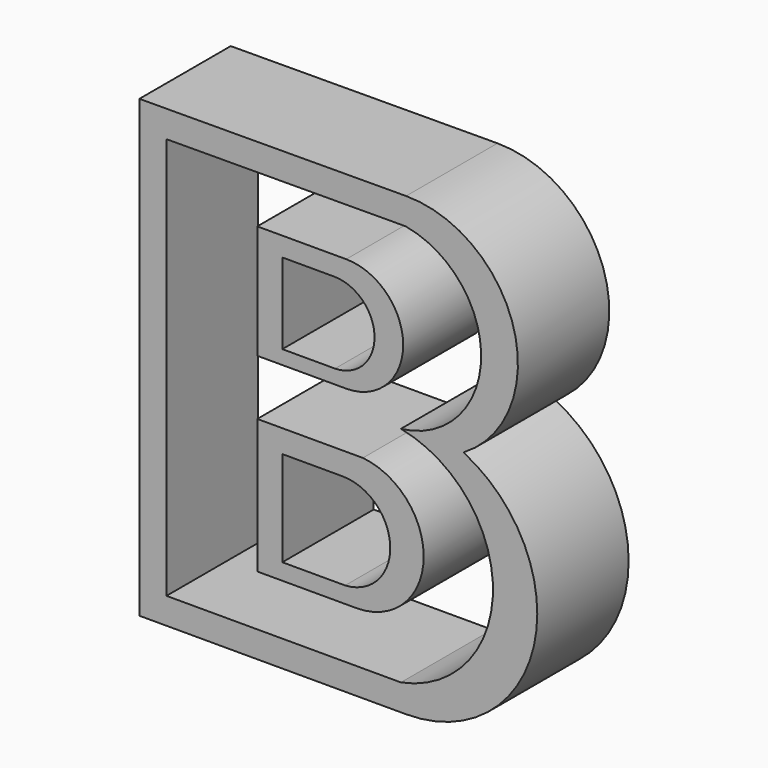
from build123d import *

# Parameters (mm, degrees)
F1_DEPTH = 25.4
F3_DEPTH = 25.4
F4_DEPTH = 53.848
F6_DEPTH = 25.4


with BuildPart() as f1:
    # F0 (on Front) → F1 (new body)
    with BuildSketch(Plane.XZ):
        with BuildLine():
            Line((-30.572927, 48.65649), (-89.897417, 48.396293))
            Line((-89.897417, 48.396293), (-89.897417, -52.819613))
            Line((-89.897417, -52.819613), (-30.572927, -52.819613))
            ThreePointArc((-30.572927, -52.819613), (-2.138348, -30.18362), (-17.823366, 2.601951))
            ThreePointArc((-17.823366, 2.601951), (-6.599701, 30.501106), (-30.572927, 48.65649))
        make_face()
    extrude(amount=F1_DEPTH)

    # F2 (on face) → F3 (cut)
    with BuildSketch(Plane.XZ):
        with BuildLine():
            Line((-46.569277, 27.679665), (-58.099557, 27.679665))
            Line((-58.099557, 27.679665), (-58.099557, 9.724027))
            Line((-58.099557, 9.724027), (-46.381809, 9.724027))
            ThreePointArc((-46.381809, 9.724027), (-37.590968, 18.794606), (-46.569277, 27.679665))
        make_face()
        with BuildLine():
            Line((-44.694602, -10.819801), (-58.099557, -10.819801))
            Line((-58.099557, -10.819801), (-58.099557, -32.003619))
            Line((-58.099557, -32.003619), (-44.132199, -32.003619))
            ThreePointArc((-44.132199, -32.003619), (-34.098962, -21.137875), (-44.694602, -10.819801))
        make_face()
    extrude(amount=-F3_DEPTH, mode=Mode.SUBTRACT)

    # F2 (on face) → F4 (cut)
    with BuildSketch(Plane.XZ):
        with BuildLine():
            Line((-46.569277, 27.679665), (-58.099557, 27.679665))
            Line((-58.099557, 27.679665), (-58.099557, 9.724027))
            Line((-58.099557, 9.724027), (-46.381809, 9.724027))
            ThreePointArc((-46.381809, 9.724027), (-37.590968, 18.794606), (-46.569277, 27.679665))
        make_face()
        with BuildLine():
            Line((-44.694602, -10.819801), (-58.099557, -10.819801))
            Line((-58.099557, -10.819801), (-58.099557, -32.003619))
            Line((-58.099557, -32.003619), (-44.132199, -32.003619))
            ThreePointArc((-44.132199, -32.003619), (-34.098962, -21.137875), (-44.694602, -10.819801))
        make_face()
    extrude(amount=F4_DEPTH, mode=Mode.SUBTRACT)

    # F5 (on face) → F6 (cut)
    with BuildSketch(Plane.XZ.offset(25.4)):
        with BuildLine():
            Line((-30.705677, 42.691864), (-83.86372, 42.458713))
            Line((-83.86372, 42.458713), (-83.86372, -46.959333))
            Line((-83.86372, -46.959333), (-31.737529, -46.959333))
            ThreePointArc((-31.737529, -46.959333), (-11.249094, -22.132434), (-31.737529, 2.694466))
            ThreePointArc((-31.737529, 2.694466), (-13.8865, 22.245954), (-30.705677, 42.691864))
        make_face()
        with BuildLine():
            Line((-41.627079, -35.627555), (-63.672543, -35.627555))
            Line((-63.672543, -35.627555), (-63.672543, -5.752861))
            Line((-63.672543, -5.752861), (-40.184855, -5.752861))
            ThreePointArc((-40.184855, -5.752861), (-26.672336, -21.377348), (-41.627079, -35.627555))
        make_face(mode=Mode.SUBTRACT)
        with BuildLine():
            Line((-63.672543, 6.609081), (-63.672543, 31.951062))
            Line((-63.672543, 31.951062), (-43.893438, 31.951062))
            ThreePointArc((-43.893438, 31.951062), (-31.222447, 19.280072), (-43.893438, 6.609081))
            Line((-43.893438, 6.609081), (-63.672543, 6.609081))
        make_face(mode=Mode.SUBTRACT)
    extrude(amount=-F6_DEPTH, mode=Mode.SUBTRACT)


solid = f1.part
